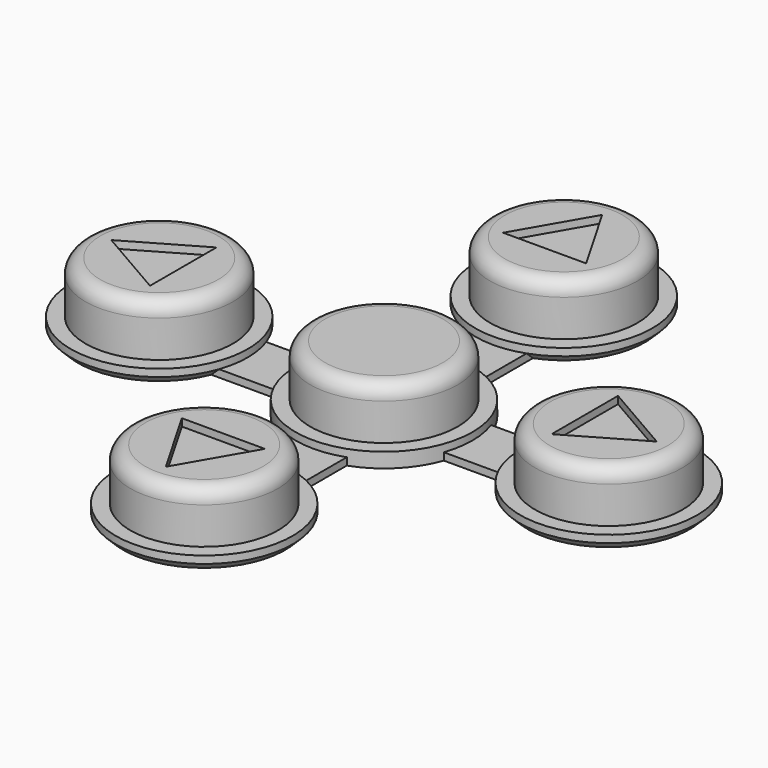
from build123d import *

# Parameters (mm, degrees)
CYLINDER_R             = 5
CYLINDER_DEPTH         = 4.5
FILLET_R               = 1
CYLINDER001_R          = 6
CYLINDER001_DEPTH      = 1
BOX001_W               = 30.48
BOX001_H               = 4
BOX001_DEPTH           = 0.5
BOX001_PLACEMENT_ANGLE = 90
BOX_W                  = 30.48
BOX_H                  = 4
BOX_DEPTH              = 0.5
POCKET_DEPTH           = 0.5
ARRAY_COUNT            = 4
CHAMFER_SIZE           = 0.5


with BuildPart() as button_body_fillet:
    # Cylinder → Cylinder (new body)
    with BuildSketch(Plane.XY.offset(8)):
        Circle(CYLINDER_R)
    extrude(amount=CYLINDER_DEPTH)

    # Fillet
    fillet_edges = [button_body_fillet.edges().sort_by_distance(p)[0] for p in [
        (-5, 0, 12.5),
    ]]
    fillet(fillet_edges, radius=FILLET_R)


with BuildPart() as button_fusion:
    # Cylinder001 → Cylinder001 (new body)
    with BuildSketch(Plane.XY.offset(8)):
        Circle(CYLINDER001_R)
    extrude(amount=CYLINDER001_DEPTH)

    # Fusion: union button-body-fillet
    add(button_body_fillet.part)


with BuildPart() as buttons_forward_backward_union_cube:
    # Box001 → Box001 (new body)
    with BuildSketch(Plane.XY):
        with Locations((15.24, 2)):
            Rectangle(BOX001_W, BOX001_H)
    extrude(amount=BOX001_DEPTH)


with BuildPart() as buttons_forward_backward_union_cube_1:
    # Box001 placement: moved
    add(buttons_forward_backward_union_cube.part.moved(Location((2, -15.24, 8))).rotate(Axis((2, -15.24, 8), (0, 0, 1)), BOX001_PLACEMENT_ANGLE))


with BuildPart() as buttons_left_right_union_cube:
    # Box → Box (new body)
    with BuildSketch(Plane(origin=(-15.24, -2, 8), x_dir=(1, 0, 0), z_dir=(0, 0, 1))):
        with Locations((15.24, 2)):
            Rectangle(BOX_W, BOX_H)
    extrude(amount=BOX_DEPTH)


with BuildPart() as printing_chamfer:
    # Clone base: copy of button-fusion
    add(button_fusion.part)


with BuildPart() as printing_chamfer_1:
    # Clone placement: moved
    add(printing_chamfer.part.moved(Location((15.24, 0, 0))))

    # Sketch → Pocket (cut)
    with BuildSketch(Plane(origin=(15.24, 0, 12.5), x_dir=(1, 0, 0), z_dir=(0, 0, 1))):
        Polygon((-1.625, 2.814583), (-1.625, -2.814583), (3.25, 0), align=None)
    extrude(amount=-POCKET_DEPTH, mode=Mode.SUBTRACT)

    # Array: printing-chamfer ×4 about axis
    array_axis = Axis((0, 0, 0), (0, 0, 1))


with BuildPart() as printing_chamfer_2:
    add(printing_chamfer_1.part)
    for i in range(1, ARRAY_COUNT):
        add(printing_chamfer_1.part.rotate(array_axis, i * 360 / ARRAY_COUNT))

    # Fusion001: union button-fusion, buttons-forward-backward-union-cube, buttons-left-right-union-cube
    add(button_fusion.part)
    add(buttons_forward_backward_union_cube_1.part)
    add(buttons_left_right_union_cube.part)

    # Chamfer
    chamfer_edges = [printing_chamfer_2.edges().sort_by_distance(p)[0] for p in [
        (16.254612, 5.913591, 8),
        (16.254612, -5.913591, 8),
        (5.913591, -16.254612, 8),
        (-5.913591, -16.254612, 8),
        (-16.254612, -5.913591, 8),
        (-16.254612, 5.913591, 8),
        (-5.913591, 16.254612, 8),
        (5.913591, 16.254612, 8),
    ]]
    chamfer(chamfer_edges, length=CHAMFER_SIZE)


solid = printing_chamfer_2.part
